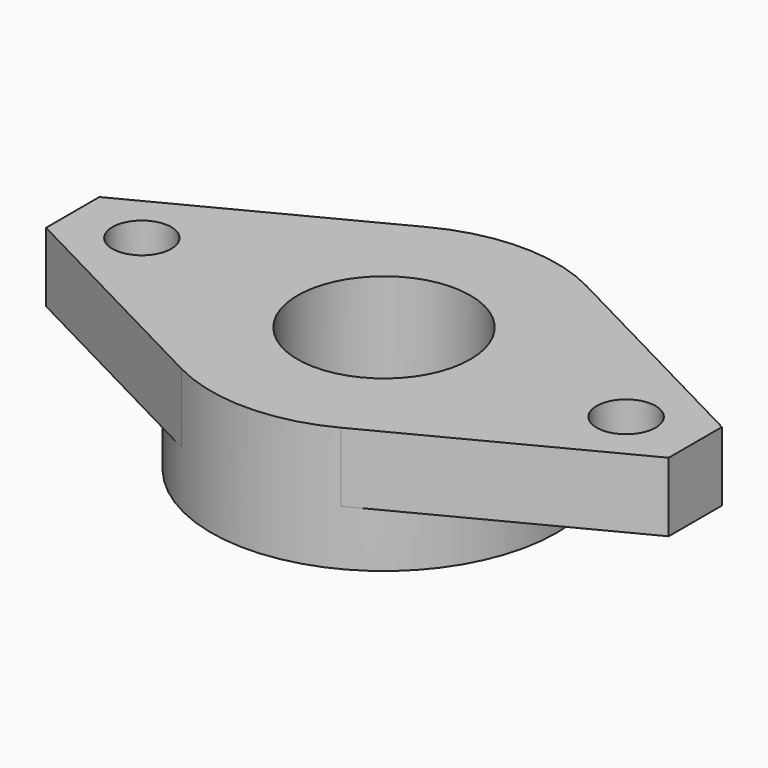
from build123d import *

# Parameters (mm, degrees)
F0_R     = 7.9375
F0_R_2   = 3.96875
F1_DEPTH = 5.715
F2_R     = 1.35255
F3_DEPTH = 3.175


with BuildPart() as f1:
    # F0 (on Top) → F1 (new body)
    with BuildSketch(Plane.XY):
        Circle(F0_R)
        Circle(F0_R_2, mode=Mode.SUBTRACT)
    extrude(amount=F1_DEPTH)

    # F2 (on face) → F3 (join)
    with BuildSketch(Plane.XY.offset(5.715)):
        with BuildLine():
            Line((-3.65679, 7.044983), (-14.2875, 1.526975))
            Line((-14.2875, 1.526975), (-14.2875, -1.526975))
            Line((-14.2875, -1.526975), (-3.65679, -7.044983))
            ThreePointArc((-3.65679, -7.044983), (-7.9375, 0), (-3.65679, 7.044983))
        make_face()
        with Locations((-11.1125, 0)):
            Circle(F2_R, mode=Mode.SUBTRACT)
        with BuildLine():
            Line((14.2875, 1.526975), (3.65679, 7.044983))
            ThreePointArc((3.65679, 7.044983), (6.783424, 4.121779), (7.9375, 0))
            ThreePointArc((7.9375, 0), (6.783424, -4.121779), (3.65679, -7.044983))
            Line((3.65679, -7.044983), (14.2875, -1.526975))
            Line((14.2875, -1.526975), (14.2875, 1.526975))
        make_face()
        with Locations((11.1125, 0)):
            Circle(F2_R, mode=Mode.SUBTRACT)
    extrude(amount=-F3_DEPTH)


solid = f1.part
